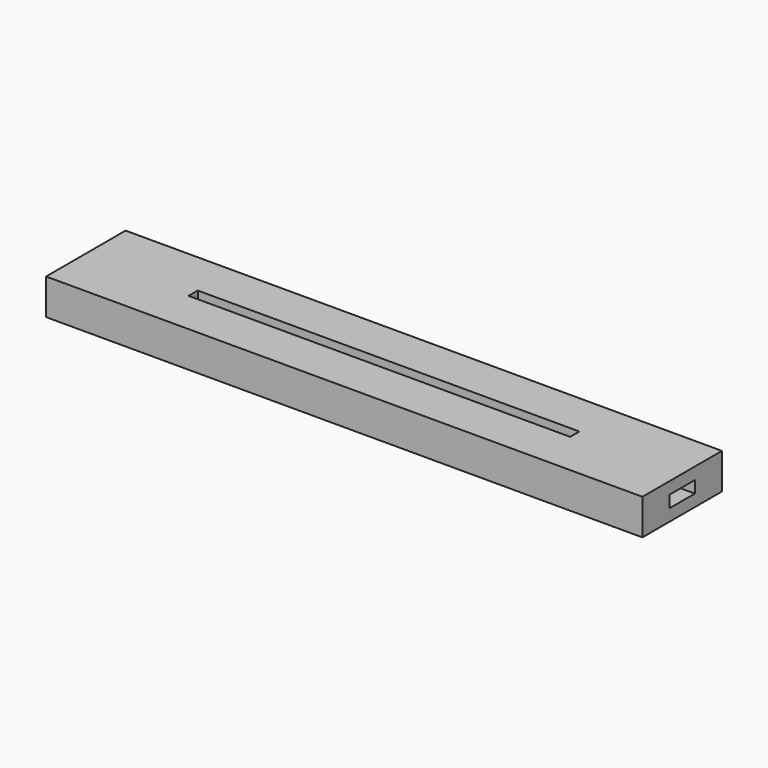
from build123d import *

# Parameters (mm, degrees)
SKETCH_W      = 150
SKETCH_H      = 25
PAD_DEPTH     = 3
PAD001_DEPTH  = 3
SKETCH004_W   = 150
SKETCH004_H   = 25
SKETCH004_W_2 = 96
SKETCH004_H_2 = 2.9
PAD002_DEPTH  = 3


with BuildPart() as part:
    # Sketch → Pad (new body)
    with BuildSketch(Plane.XY):
        Rectangle(SKETCH_W, SKETCH_H)
    extrude(amount=PAD_DEPTH)

    # Sketch001 (on Face6 of Pad) → Pad001 (join)
    with BuildSketch(Plane.XY.offset(3)):
        Polygon((-75, 12.5), (75, 12.5), (75, 4), (50, 4), (50, 5), (-50, 5), (-50, 4), (-52.25, 4), (-52.25, 9.2), (-72.25, 9.2), (-72.25, 4.5), (-75, 4.5), align=None)
        Polygon((-75, -12.5), (75, -12.5), (75, -4), (50, -4), (50, -5), (-50, -5), (-50, -4), (-52.25, -4), (-52.25, -9.2), (-72.25, -9.2), (-72.25, -4.5), (-75, -4.5), align=None)
    extrude(amount=PAD001_DEPTH)

    # Sketch004 (on Face12 of Pad001) → Pad002 (join)
    with BuildSketch(Plane.XY.offset(6)):
        Rectangle(SKETCH004_W, SKETCH004_H)
        Rectangle(SKETCH004_W_2, SKETCH004_H_2, mode=Mode.SUBTRACT)
    extrude(amount=PAD002_DEPTH)


solid = part.part
